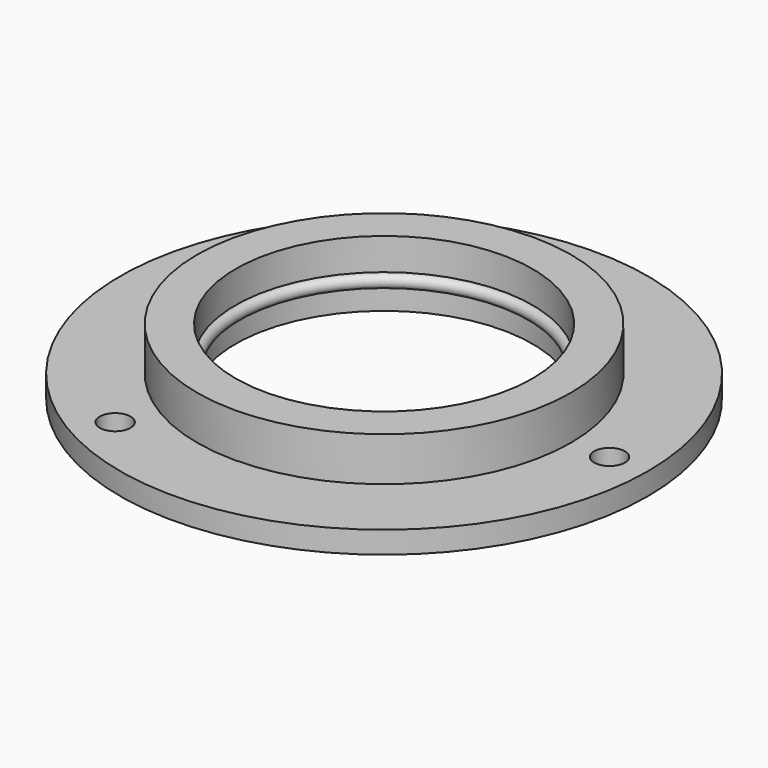
from build123d import *

# Parameters (mm, degrees)
TORUS004_R        = 0.6
CYLINDER068_R     = 1.4
CYLINDER068_DEPTH = 2
ARRAY014_COUNT    = 3
CYLINDER067_R     = 13.5
CYLINDER067_DEPTH = 6
CYLINDER066_R     = 24
CYLINDER066_DEPTH = 2
CYLINDER065_R     = 17
CYLINDER065_DEPTH = 4


with BuildPart() as pot_rim_clip:
    # Torus004 → Torus004 (revolve)
    with BuildSketch(Plane(origin=(0, 0, 2.5), x_dir=(1, 0, 0), z_dir=(0, -1, 0))):
        with Locations((13.5, 0)):
            Circle(TORUS004_R)
    revolve(axis=Axis((0, 0, 2.5), (0, 0, 1)))


with BuildPart() as screw_holes001:
    # Cylinder068 → Cylinder068 (new body)
    with BuildSketch(Plane(origin=(20.5, 0, 0), x_dir=(1, 0, 0), z_dir=(0, 0, 1))):
        Circle(CYLINDER068_R)
    extrude(amount=CYLINDER068_DEPTH)

    # Array014: screw-holes001 ×3 about axis
    array014_axis = Axis((0, 0, 0), (0, 0, 1))


with BuildPart() as screw_holes001_1:
    add(screw_holes001.part)
    for i in range(1, ARRAY014_COUNT):
        add(screw_holes001.part.rotate(array014_axis, i * 360 / ARRAY014_COUNT))


with BuildPart() as pot_thread_hole001:
    # Cylinder067 → Cylinder067 (new body)
    with BuildSketch(Plane.XY):
        Circle(CYLINDER067_R)
    extrude(amount=CYLINDER067_DEPTH)


with BuildPart() as brim001:
    # Cylinder066 → Cylinder066 (new body)
    with BuildSketch(Plane.XY):
        Circle(CYLINDER066_R)
    extrude(amount=CYLINDER066_DEPTH)


with BuildPart() as pot_mount002:
    # Cylinder065 → Cylinder065 (new body)
    with BuildSketch(Plane.XY.offset(2)):
        Circle(CYLINDER065_R)
    extrude(amount=CYLINDER065_DEPTH)

    # Fusion028: union brim001
    add(brim001.part)

    # Cut049: cut pot-thread-hole001
    add(pot_thread_hole001.part, mode=Mode.SUBTRACT)

    # Cut053: cut screw-holes001
    add(screw_holes001_1.part, mode=Mode.SUBTRACT)

    # Fusion029: union pot-rim-clip
    add(pot_rim_clip.part)


with BuildPart() as pot_mount002_1:
    # Fusion029 placement: moved
    add(pot_mount002.part.moved(Location((0, 0, 30.2))))


solid = pot_mount002_1.part
